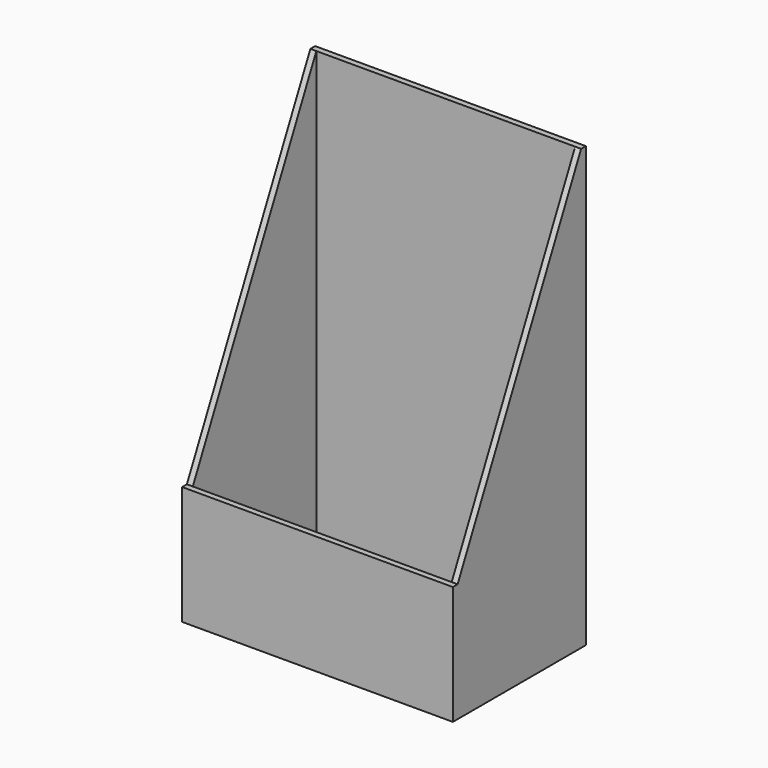
from build123d import *

# Parameters (mm, degrees)
F0_W     = 114
F0_H     = 70
F1_DEPTH = 185
F5_DEPTH = 114
F3_W     = 109
F3_H     = 65
F6_DEPTH = 182.501


with BuildPart() as f1:
    # F0 (on Top) → F1 (new body)
    with BuildSketch(Plane.XY):
        with Locations((-57, -35)):
            Rectangle(F0_W, F0_H)
    extrude(amount=F1_DEPTH)

    # F4 (on Right) → F5 (cut, through all)
    with BuildSketch(Plane.YZ):
        Polygon((-70, 185), (-70, 50), (-67.5, 50), (-2.5, 185), align=None)
    extrude(amount=-F5_DEPTH, mode=Mode.SUBTRACT)

    # F3 (on offset) → F6 (cut, through all)
    with BuildSketch(Plane.XY.offset(2.5)):
        with Locations((-57, -35)):
            Rectangle(F3_W, F3_H)
    extrude(amount=F6_DEPTH, mode=Mode.SUBTRACT)


solid = f1.part
